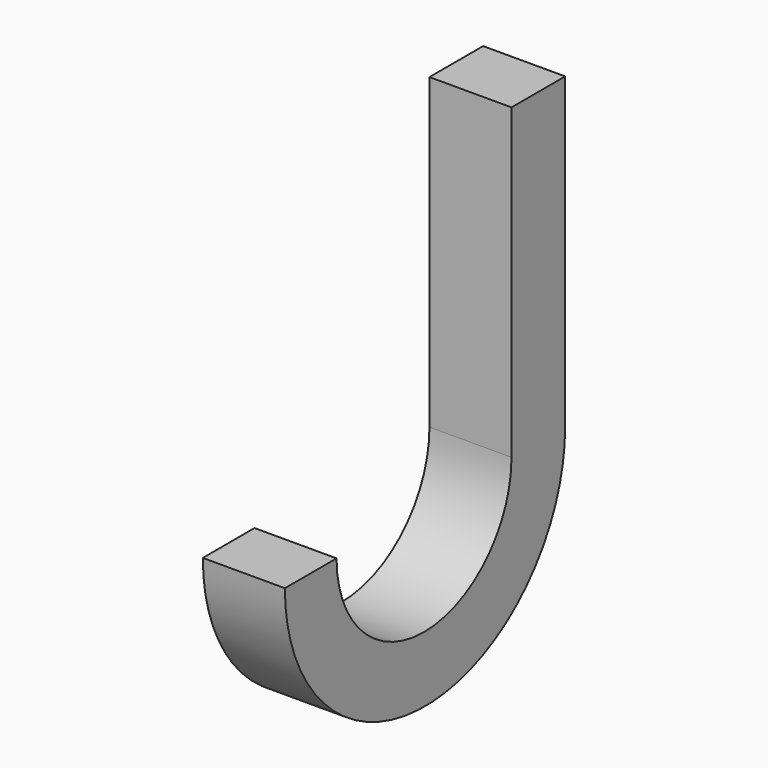
from build123d import *

# Parameters (mm, degrees)
F1_DEPTH = 10.16


with BuildPart() as f1:
    # F0 (on Right) → F1 (new body)
    with BuildSketch(Plane.YZ):
        with BuildLine():
            Line((0, -3.692769), (0, 34.465846))
            Line((0, 34.465846), (-8.308733, 34.465846))
            Line((-8.308733, 34.465846), (-8.308733, -3.692769))
            ThreePointArc((-8.308733, -3.692769), (-21.848886, -17.232923), (-35.38904, -3.692769))
            Line((-35.38904, -3.692769), (-43.390039, -3.692769))
            ThreePointArc((-43.390039, -3.692769), (-21.69502, -25.387789), (0, -3.692769))
        make_face()
    extrude(amount=F1_DEPTH)


solid = f1.part
